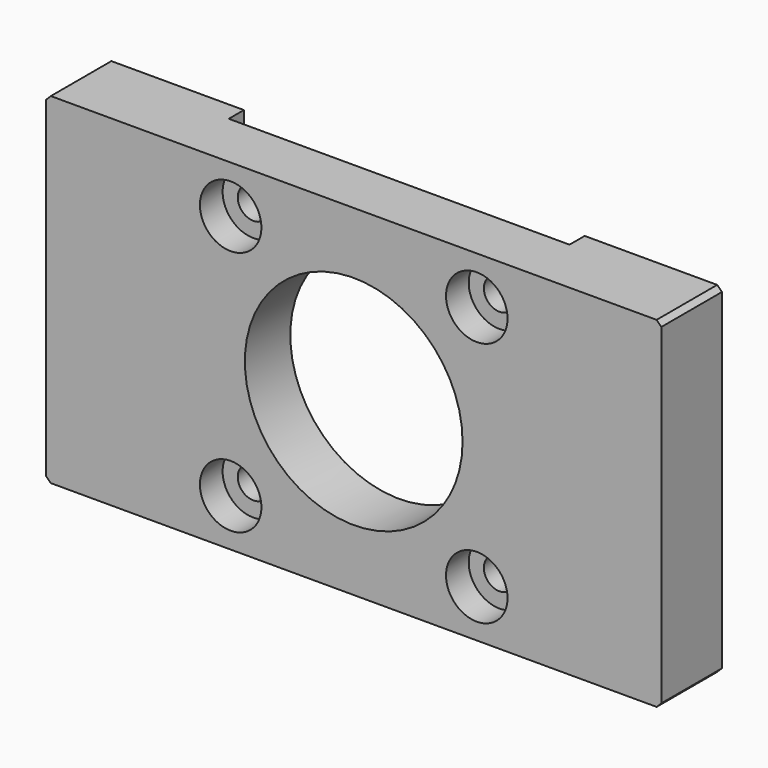
from build123d import *

# Parameters (mm, degrees)
F0_W           = 65
F0_H           = 36
F0_R           = 11.5
F1_DEPTH       = 8
F3_D           = 3.3
F3_CBORE_D     = 6.5
F3_CBORE_DEPTH = 3
F4_SIZE        = 0.5
F6_D           = 2.5
F6_DEPTH       = 13.5
F6_TIP         = 0.7510757738
F7_W           = 36
F7_H           = 36
F7_R           = 1.65
F7_R_2         = 11.5
F8_DEPTH       = 2


with BuildPart() as f1:
    # F0 (on Front) → F1 (new body)
    with BuildSketch(Plane.XZ):
        Rectangle(F0_W, F0_H)
        Circle(F0_R, mode=Mode.SUBTRACT)
    extrude(amount=F1_DEPTH)

    # F3 (through all)
    with Locations(Plane.XZ.offset(8)):
        with Locations((13, 13), (13, -13), (-13, -13), (-13, 13)):
            CounterBoreHole(F3_D / 2, F3_CBORE_D / 2, F3_CBORE_DEPTH)

    # F4
    f4_edges = [f1.edges().sort_by_distance(p)[0] for p in [
        (-32.5, -4, 18),
        (32.5, -4, 18),
        (32.5, -4, -18),
        (-32.5, -4, -18),
    ]]
    chamfer(f4_edges, length=F4_SIZE)

    # F6
    with Locations(Plane(origin=(0, 0, -18), x_dir=(1, 0, 0), z_dir=(0, 0, -1))):
        with Locations((27, 4), (-27, 4)):
            Hole(F6_D / 2, depth=F6_DEPTH)
            with Locations((0, 0, -(F6_DEPTH + F6_TIP / 2))):  # 118° drill point
                Cone(0, F6_D / 2, F6_TIP, mode=Mode.SUBTRACT)

    # F7 (on face) → F8 (cut)
    with BuildSketch(Plane(origin=(0, 0, 0), x_dir=(-1, 0, 0), z_dir=(0, 1, 0))):
        Rectangle(F7_W, F7_H)
        with Locations((-13, -13)):
            Circle(F7_R, mode=Mode.SUBTRACT)
        with Locations((13, -13)):
            Circle(F7_R, mode=Mode.SUBTRACT)
        with Locations((-13, 13)):
            Circle(F7_R, mode=Mode.SUBTRACT)
        Circle(F7_R_2, mode=Mode.SUBTRACT)
        with Locations((13, 13)):
            Circle(F7_R, mode=Mode.SUBTRACT)
    extrude(amount=-F8_DEPTH, mode=Mode.SUBTRACT)


solid = f1.part
